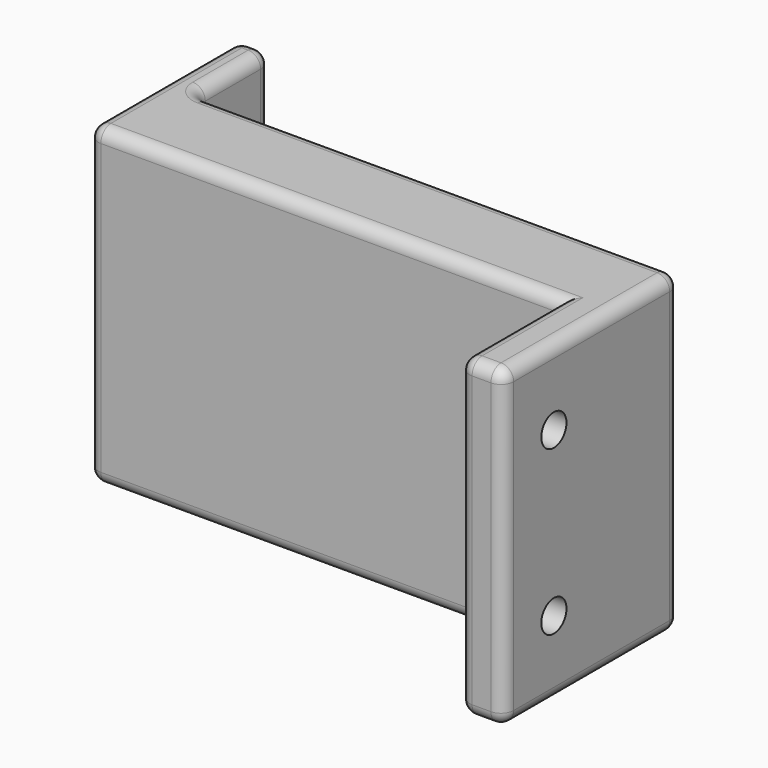
from build123d import *

# Parameters (mm, degrees)
F1_DEPTH = 50
F2_R     = 2.5
F3_DEPTH = 25
F4_R     = 2


with BuildPart() as f1:
    # F0 (on Top) → F1 (new body)
    with BuildSketch(Plane.XY):
        Polygon((-41, -15), (34, -15), (34, -35), (41, -35), (41, -15), (41, 0), (-36, 0), (-36, 15), (-41, 15), align=None)
    extrude(amount=F1_DEPTH)

    # F2 (on face) → F3 (cut)
    with BuildSketch(Plane(origin=(34, 0, 0), x_dir=(0, -1, 0), z_dir=(-1, 0, 0))):
        with Locations((25, 12)):
            Circle(F2_R)
        with Locations((25, 38)):
            Circle(F2_R)
    extrude(amount=-F3_DEPTH, mode=Mode.SUBTRACT)

    # F4
    f4_edges = [f1.edges().sort_by_distance(p)[0] for p in [
        (-3.5, -15, 50),
        (34, -25, 50),
        (37.5, -35, 50),
        (41, -17.5, 50),
        (2.5, 0, 50),
        (-36, 7.5, 50),
        (-38.5, 15, 50),
        (-41, 0, 50),
        (-3.5, -15, 0),
        (34, -25, 0),
        (37.5, -35, 0),
        (41, -17.5, 0),
        (2.5, 0, 0),
        (-36, 7.5, 0),
        (-38.5, 15, 0),
        (-41, 0, 0),
        (34, -35, 25),
        (-41, -15, 25),
        (-41, 15, 25),
        (-36, 15, 25),
        (41, 0, 25),
        (-36, 0, 25),
        (41, -35, 25),
    ]]
    fillet(f4_edges, radius=F4_R)


solid = f1.part
